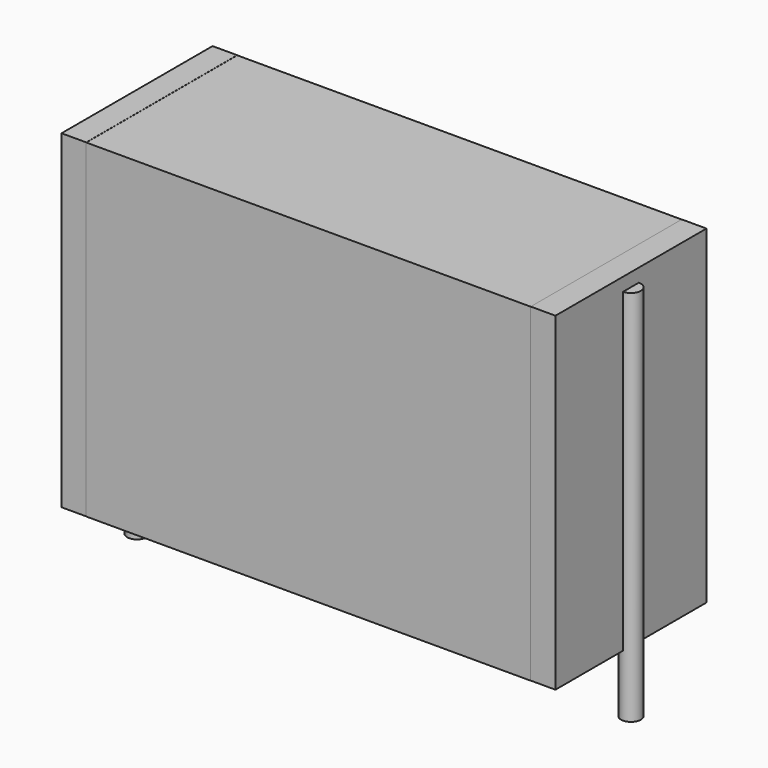
from build123d import *

# Parameters (mm, degrees)
SKETCH_W          = 20.25
SKETCH_H          = 8.6
PAD_DEPTH         = 15
SKETCH001_R       = 0.45
PAD001_DEPTH      = 14
PAD001_DEPTH_BACK = 3.2
SKETCH002_W       = 1.125
SKETCH002_H       = 8.6
PAD002_DEPTH      = 15


with BuildPart() as pad:
    # Sketch → Pad (new body)
    with BuildSketch(Plane.XY.offset(0.1)):
        with Locations((11.25, 0)):
            Rectangle(SKETCH_W, SKETCH_H)
    extrude(amount=PAD_DEPTH)


with BuildPart() as pad001:
    # Sketch001 → Pad001 (new body, two sides)
    with BuildSketch(Plane.XY.offset(0.5)) as pad001_sk:
        Circle(SKETCH001_R)
        with Locations((22.5, 0)):
            Circle(SKETCH001_R)
    extrude(amount=PAD001_DEPTH)
    extrude(pad001_sk.sketch, amount=-PAD001_DEPTH_BACK)


with BuildPart() as pad002:
    # Sketch002 → Pad002 (new body)
    with BuildSketch(Plane.XY.offset(0.105)):
        with Locations((0.5625, 0)):
            Rectangle(SKETCH002_W, SKETCH002_H)
        with Locations((21.9375, 0)):
            Rectangle(SKETCH002_W, SKETCH002_H)
    extrude(amount=PAD002_DEPTH)


solid = Compound([pad.part, pad001.part, pad002.part])
